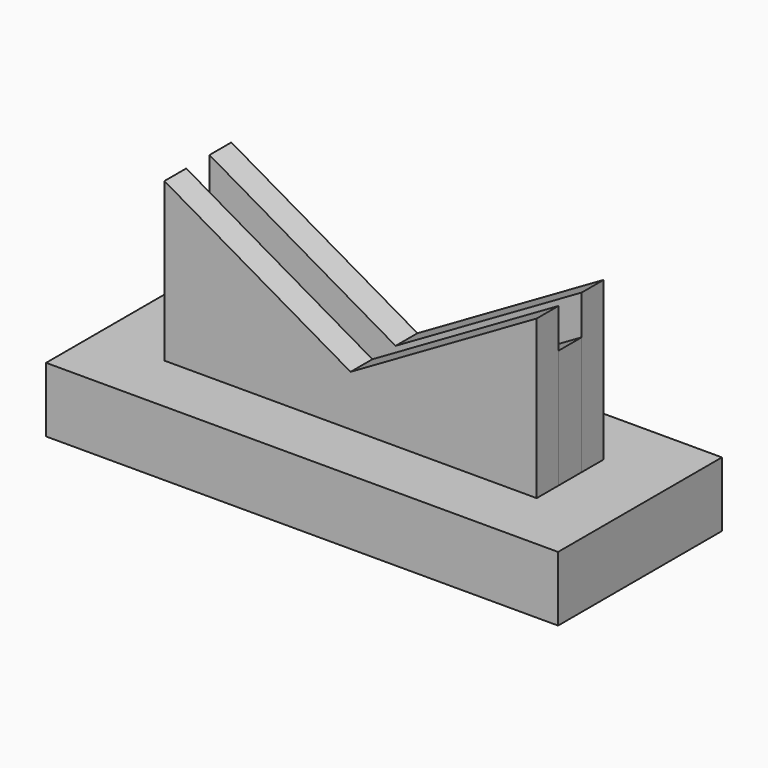
from build123d import *

# Parameters (mm, degrees)
F0_W     = 150
F0_H     = 19
F1_DEPTH = 30
F3_DEPTH = 4.25
F5_DEPTH = 8
F7_DEPTH = 8


with BuildPart() as f1:
    # F0 (on Front) → F1 (new body, symmetric)
    with BuildSketch(Plane.XZ):
        with Locations((0, 9.5)):
            Rectangle(F0_W, F0_H)
    extrude(amount=F1_DEPTH, both=True)


with BuildPart() as f3:
    # F2 (on Front) → F3 (new body, symmetric)
    with BuildSketch(Plane.XZ):
        Polygon((54.5325, 53.781214), (0, 22.296861), (-54.5325, 53.781214), (-54.5325, 19), (54.5325, 19), align=None)
    extrude(amount=F3_DEPTH, both=True)


with BuildPart() as f5:
    # F4 (on face) → F5 (new body)
    with BuildSketch(Plane.XZ.offset(4.25)):
        Polygon((54.5325, 65.32822), (0, 33.843866), (-54.5325, 65.32822), (-54.5325, 19), (54.5325, 19), align=None)
    extrude(amount=F5_DEPTH)


with BuildPart() as f7:
    # F6 (on face) → F7 (new body)
    with BuildSketch(Plane(origin=(0, 4.25, 0), x_dir=(-1, 0, 0), z_dir=(0, 1, 0))):
        Polygon((54.5325, 19), (54.5325, 65.32822), (0, 33.843866), (-54.5325, 65.32822), (-54.5325, 19), align=None)
    extrude(amount=F7_DEPTH)


solid = Compound([f1.part, f3.part, f5.part, f7.part])
